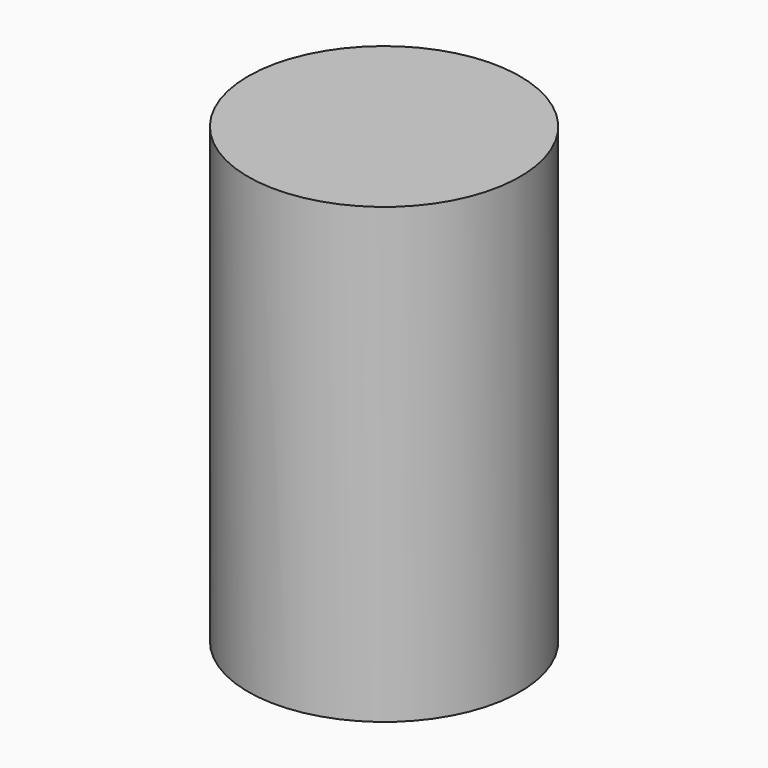
from build123d import *

# Parameters (mm, degrees)
F0_W     = 38.1
F0_H     = 127
F3_R     = 6.35
F4_DEPTH = 12.7
F5_COUNT = 8


with BuildPart() as f1:
    # F0 (on Front) → F1 (revolve)
    with BuildSketch(Plane.XZ):
        with Locations((-19.05, 0)):
            Rectangle(F0_W, F0_H)
    revolve(axis=Axis((0, 0, 0), (0, 0, -1)))


with BuildPart() as f4:
    # F3 (on offset) → F4 (new body)
    with BuildSketch(Plane.XZ.offset(38.1)):
        Circle(F3_R)
    extrude(amount=F4_DEPTH)


with BuildPart() as f5_1:
    # F5: instance of F4
    add(f4.part.rotate(Axis((0, 0, 63.5), (0, 0, -1)), 1 * 360 / F5_COUNT))


with BuildPart() as f5_2:
    # F5: instance of F4
    add(f4.part.rotate(Axis((0, 0, 63.5), (0, 0, -1)), 2 * 360 / F5_COUNT))


with BuildPart() as f5_3:
    # F5: instance of F4
    add(f4.part.rotate(Axis((0, 0, 63.5), (0, 0, -1)), 3 * 360 / F5_COUNT))


with BuildPart() as f5_4:
    # F5: instance of F4
    add(f4.part.rotate(Axis((0, 0, 63.5), (0, 0, -1)), 4 * 360 / F5_COUNT))


with BuildPart() as f5_5:
    # F5: instance of F4
    add(f4.part.rotate(Axis((0, 0, 63.5), (0, 0, -1)), 5 * 360 / F5_COUNT))


with BuildPart() as f5_6:
    # F5: instance of F4
    add(f4.part.rotate(Axis((0, 0, 63.5), (0, 0, -1)), 6 * 360 / F5_COUNT))


with BuildPart() as f5_7:
    # F5: instance of F4
    add(f4.part.rotate(Axis((0, 0, 63.5), (0, 0, -1)), 7 * 360 / F5_COUNT))


with BuildPart() as f1_1:
    add(f1.part)

    # F6: cut F4, F5_1, F5_2, F5_3, F5_4, F5_5, F5_6, F5_7
    add(f4.part, mode=Mode.SUBTRACT)
    add(f5_1.part, mode=Mode.SUBTRACT)
    add(f5_2.part, mode=Mode.SUBTRACT)
    add(f5_3.part, mode=Mode.SUBTRACT)
    add(f5_4.part, mode=Mode.SUBTRACT)
    add(f5_5.part, mode=Mode.SUBTRACT)
    add(f5_6.part, mode=Mode.SUBTRACT)
    add(f5_7.part, mode=Mode.SUBTRACT)


solid = f1_1.part
